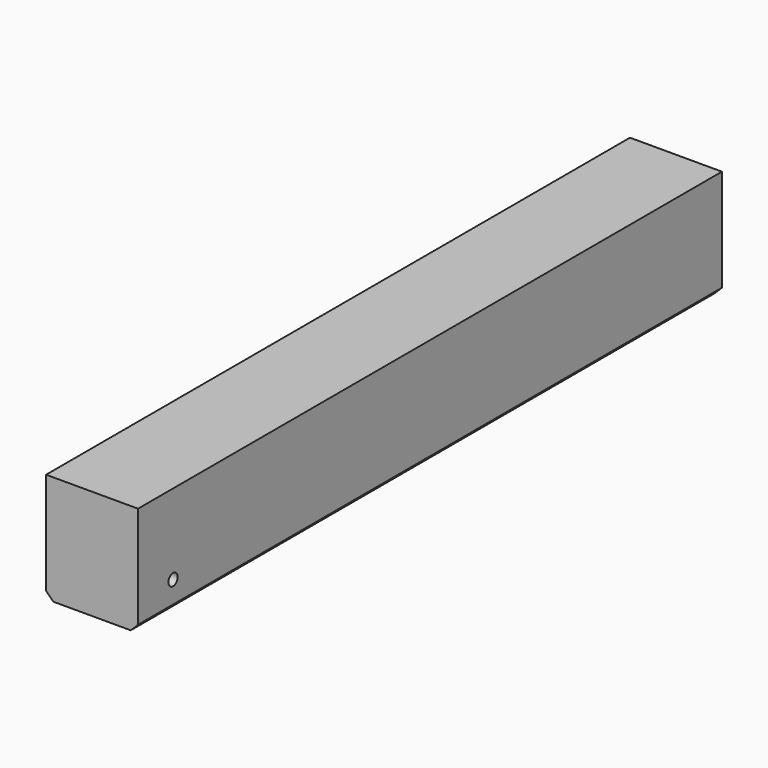
from build123d import *

# Parameters (mm, degrees)
F0_W     = 63
F0_H     = 75
F1_DEPTH = 500
F2_SIZE  = 5
F3_R     = 4
F4_DEPTH = 63.001


with BuildPart() as f1:
    # F0 (on Front) → F1 (new body)
    with BuildSketch(Plane.XZ):
        Rectangle(F0_W, F0_H)
    extrude(amount=F1_DEPTH)

    # F2
    f2_edges = [f1.edges().sort_by_distance(p)[0] for p in [
        (31.5, -250, -37.5),
        (-31.5, -250, -37.5),
    ]]
    chamfer(f2_edges, length=F2_SIZE)

    # F3 (on face) → F4 (cut, through all)
    with BuildSketch(Plane.YZ.offset(31.5)):
        with Locations((-470, -17.5)):
            Circle(F3_R)
    extrude(amount=-F4_DEPTH, mode=Mode.SUBTRACT)


solid = f1.part
